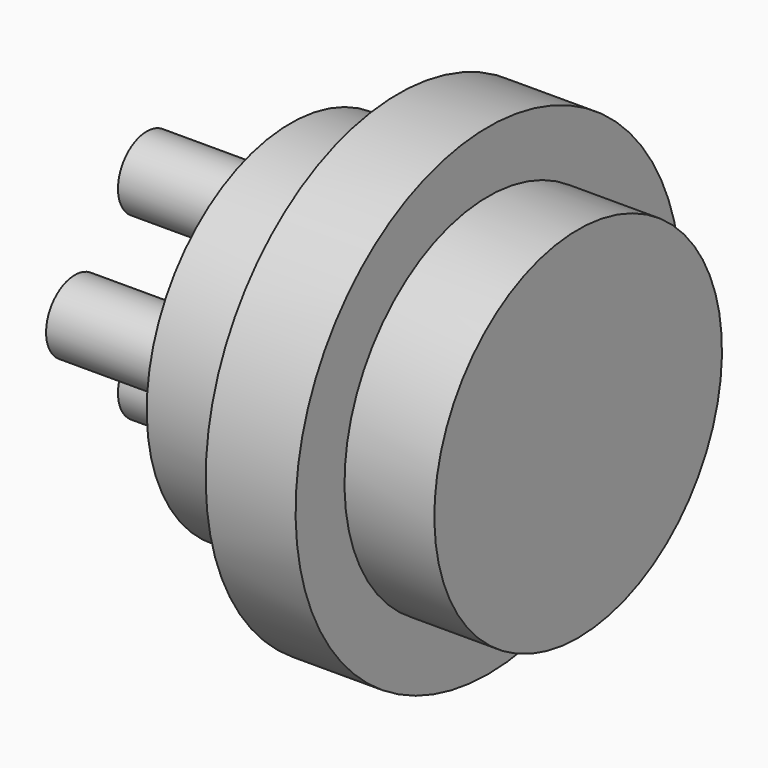
from build123d import *

# Parameters (mm, degrees)
SKETCH002_R             = 5
PAD002_DEPTH            = 8
SKETCH003_R             = 6.7
PAD003_DEPTH            = 2.5
SKETCH004_R             = 1
PAD004_DEPTH            = 12
BODY001_PLACEMENT_ANGLE = 90


with BuildPart() as part:
    # Sketch002 → Pad002 (new body)
    with BuildSketch(Plane.XY):
        Circle(SKETCH002_R)
    extrude(amount=-PAD002_DEPTH)

    # Sketch003 → Pad003 (join)
    with BuildSketch(Plane.XY.offset(-5)):
        Circle(SKETCH003_R)
    extrude(amount=PAD003_DEPTH)

    # Sketch004 → Pad004 (join)
    with BuildSketch(Plane.XY):
        with Locations((2.5, 0)):
            Circle(SKETCH004_R)
        with Locations((-2.5, 0)):
            Circle(SKETCH004_R)
        with Locations((0, 2.5)):
            Circle(SKETCH004_R)
        with Locations((0, -2.5)):
            Circle(SKETCH004_R)
    extrude(amount=-PAD004_DEPTH)


with BuildPart() as part_1:
    # Body001 placement: moved
    add(part.part.moved(Location((55, 6, -7.5))).rotate(Axis((55, 6, -7.5), (0, 1, 0)), BODY001_PLACEMENT_ANGLE))


solid = part_1.part
